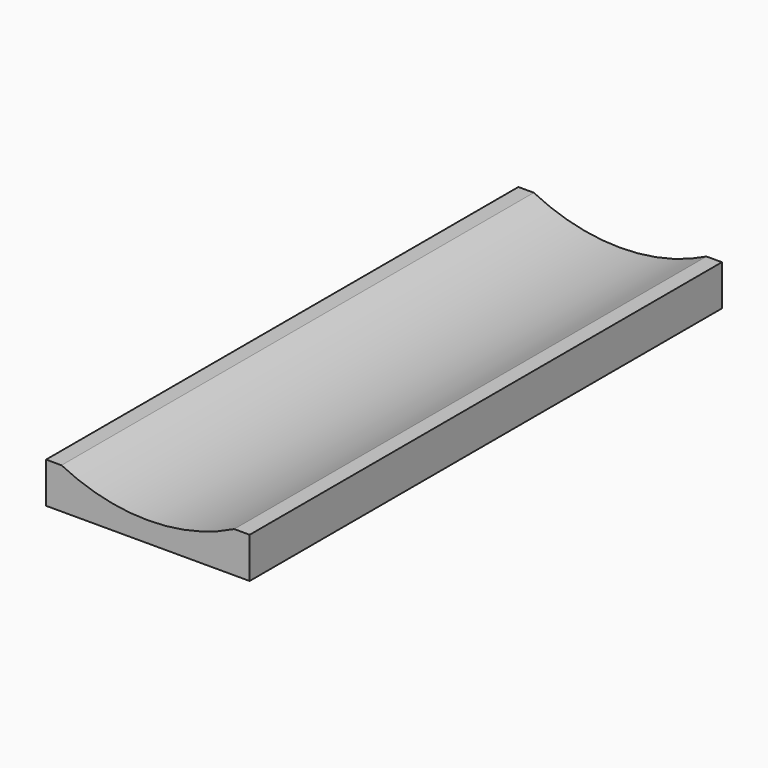
from build123d import *

# Parameters (mm, degrees)
F1_DEPTH = 870


with BuildPart() as f1:
    # F0 (on Front) → F1 (new body)
    with BuildSketch(Plane.XZ):
        with BuildLine():
            ThreePointArc((127.279221, 0), (0, -30), (-127.279221, 0))
            Line((-127.279221, 0), (-150, 0))
            Line((-150, 0), (-150, -60))
            Line((-150, -60), (150, -60))
            Line((150, -60), (150, 0))
            Line((150, 0), (127.279221, 0))
        make_face()
    extrude(amount=-F1_DEPTH)


solid = f1.part
